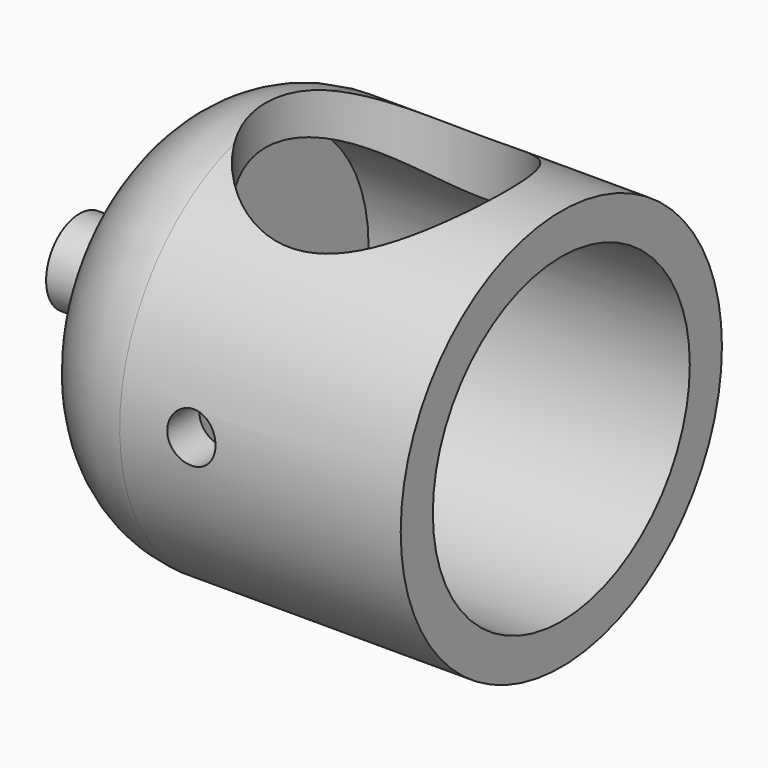
from build123d import *

# Parameters (mm, degrees)
F0_R      = 63.5
F1_DEPTH  = 127
F2_R      = 50.8
F3_DEPTH  = 101.6
F4_R      = 38.1
F6_R      = 7.62
F7_DEPTH  = 152.4
F8_R      = 7.62
F9_DEPTH  = 381
F10_R     = 38.1
F11_DEPTH = 381
F12_R     = 13.215582
F13_DEPTH = 25.4


with BuildPart() as f1:
    # F0 (on Right) → F1 (new body)
    with BuildSketch(Plane.YZ):
        Circle(F0_R)
    extrude(amount=F1_DEPTH)

    # F2 (on face) → F3 (cut)
    with BuildSketch(Plane.YZ.offset(127)):
        Circle(F2_R)
    extrude(amount=-F3_DEPTH, mode=Mode.SUBTRACT)

    # F4
    f4_edges = [f1.edges().sort_by_distance(p)[0] for p in [
        (0, -63.5, 0),
    ]]
    fillet(f4_edges, radius=F4_R)

    # F6 (on offset) → F7 (cut)
    with BuildSketch(Plane.XZ.offset(76.2)):
        with Locations((60.656205, 4.460988)):
            Circle(F6_R)
    extrude(amount=-F7_DEPTH, mode=Mode.SUBTRACT)

    # F8 (on Top) → F9 (cut)
    with BuildSketch(Plane.XY):
        with Locations((62.16915, 0)):
            Circle(F8_R)
    extrude(amount=-F9_DEPTH, mode=Mode.SUBTRACT)

    # F10 (on Top) → F11 (cut)
    with BuildSketch(Plane.XY):
        with Locations((71.579769, 0)):
            Circle(F10_R)
    extrude(amount=F11_DEPTH, mode=Mode.SUBTRACT)

    # F12 (on face) → F13 (join)
    with BuildSketch(Plane(origin=(0, 0, 0), x_dir=(0, -1, 0), z_dir=(-1, 0, 0))):
        Circle(F12_R)
    extrude(amount=F13_DEPTH)


solid = f1.part
